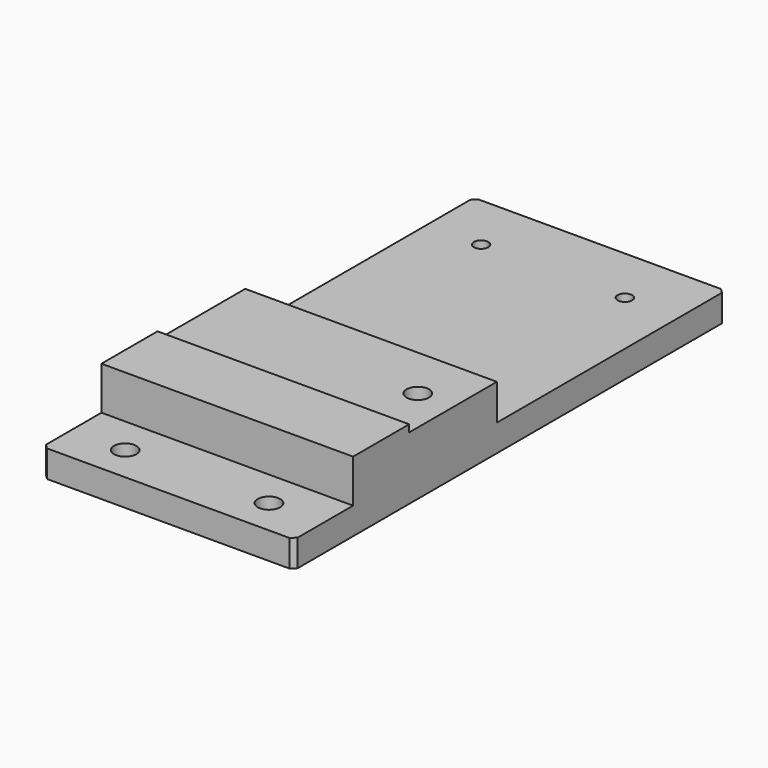
from build123d import *

# Parameters (mm, degrees)
F0_W      = 28
F0_H      = 60
F4_DEPTH  = 3
F2_W      = 28
F2_H      = 7.8
F5_DEPTH  = 7.8
F3_W      = 28
F3_H      = 12.2
F6_DEPTH  = 7
F7_R      = 0.8
F8_DEPTH  = 25
F9_R      = 0.8
F10_DEPTH = 25
F11_R     = 1.25
F13_DEPTH = 25
F12_R     = 1.25
F14_DEPTH = 25
F15_SIZE  = 0.5
F16_R     = 1.25
F17_DEPTH = 25


with BuildPart() as f4:
    # F0 (on Top) → F4 (new body)
    with BuildSketch(Plane.XY):
        with Locations((14, 30)):
            Rectangle(F0_W, F0_H)
    extrude(amount=F4_DEPTH)

    # F2 (on face) → F5 (join)
    with BuildSketch(Plane.XY):
        with Locations((14, 12.1)):
            Rectangle(F2_W, F2_H)
    extrude(amount=F5_DEPTH)

    # F3 (on face) → F6 (join)
    with BuildSketch(Plane.XY):
        with Locations((14, 22.1)):
            Rectangle(F3_W, F3_H)
    extrude(amount=F6_DEPTH)

    # F7 (on face) → F8 (cut)
    with BuildSketch(Plane.XY.offset(3)):
        with Locations((6, 53.5)):
            Circle(F7_R)
    extrude(amount=-F8_DEPTH, mode=Mode.SUBTRACT)

    # F9 (on face) → F10 (cut)
    with BuildSketch(Plane.XY.offset(3)):
        with Locations((22, 53.5)):
            Circle(F9_R)
    extrude(amount=-F10_DEPTH, mode=Mode.SUBTRACT)

    # F11 (on face) → F13 (cut)
    with BuildSketch(Plane.XY.offset(3)):
        with Locations((6, 4)):
            Circle(F11_R)
    extrude(amount=-F13_DEPTH, mode=Mode.SUBTRACT)

    # F12 (on face) → F14 (cut)
    with BuildSketch(Plane.XY.offset(3)):
        with Locations((22, 4)):
            Circle(F12_R)
    extrude(amount=-F14_DEPTH, mode=Mode.SUBTRACT)

    # F15
    f15_edges = [f4.edges().sort_by_distance(p)[0] for p in [
        (28, 0, 1.5),
        (0, 0, 1.5),
        (0, 60, 1.5),
        (28, 60, 1.5),
    ]]
    chamfer(f15_edges, length=F15_SIZE)

    # F16 (on face) → F17 (cut)
    with BuildSketch(Plane.XY.offset(7)):
        with Locations((24, 22.2)):
            Circle(F16_R)
    extrude(amount=-F17_DEPTH, mode=Mode.SUBTRACT)


solid = f4.part
